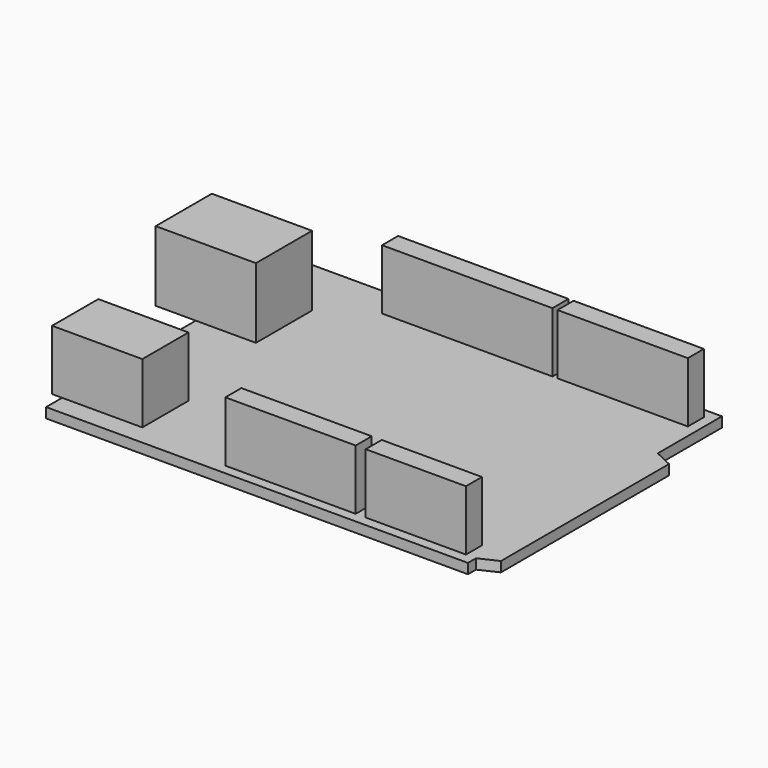
from build123d import *

# Parameters (mm, degrees)
F1_DEPTH = 1.5875
F2_W     = 15.875
F2_H     = 11.1125
F3_DEPTH = 11.1125
F4_W     = 1.5875
F4_H     = 9.144
F4_W_2   = 12.7
F5_DEPTH = 9.525
F6_W     = 26.9875
F6_H     = 3.175
F6_W_2   = 20.6375
F6_W_3   = 15.875
F7_DEPTH = 9.525


with BuildPart() as f1:
    # F0 (on Top) → F1 (new body)
    with BuildSketch(Plane.XY):
        Polygon((-38.356409, 37.185692), (-38.356409, -13.083157), (28.445591, -13.083157), (28.445591, -11.495657), (31.317557, -10.141982), (31.317557, 23.132018), (28.445591, 24.485692), (28.445591, 37.185692), align=None)
    extrude(amount=F1_DEPTH)

    # F2 (on face) → F3 (join)
    with BuildSketch(Plane.XY.offset(1.5875)):
        with Locations((-36.768909, 22.104442)):
            Rectangle(F2_W, F2_H)
    extrude(amount=F3_DEPTH)

    # F4 (on face) → F5 (join)
    with BuildSketch(Plane.XY.offset(1.5875)):
        with Locations((-39.150159, -5.336157)):
            Rectangle(F4_W, F4_H)
        with Locations((-32.006409, -5.336157)):
            Rectangle(F4_W_2, F4_H)
    extrude(amount=F5_DEPTH)

    # F6 (on face) → F7 (join)
    with BuildSketch(Plane.XY.offset(1.5875)):
        with Locations((-8.066909, 34.010692)):
            Rectangle(F6_W, F6_H)
        with Locations((16.539341, 34.010692)):
            Rectangle(F6_W_2, F6_H)
        with Locations((-0.923159, -9.908157)):
            Rectangle(F6_W_2, F6_H)
        with Locations((18.920591, -9.908157)):
            Rectangle(F6_W_3, F6_H)
    extrude(amount=F7_DEPTH)


solid = f1.part
